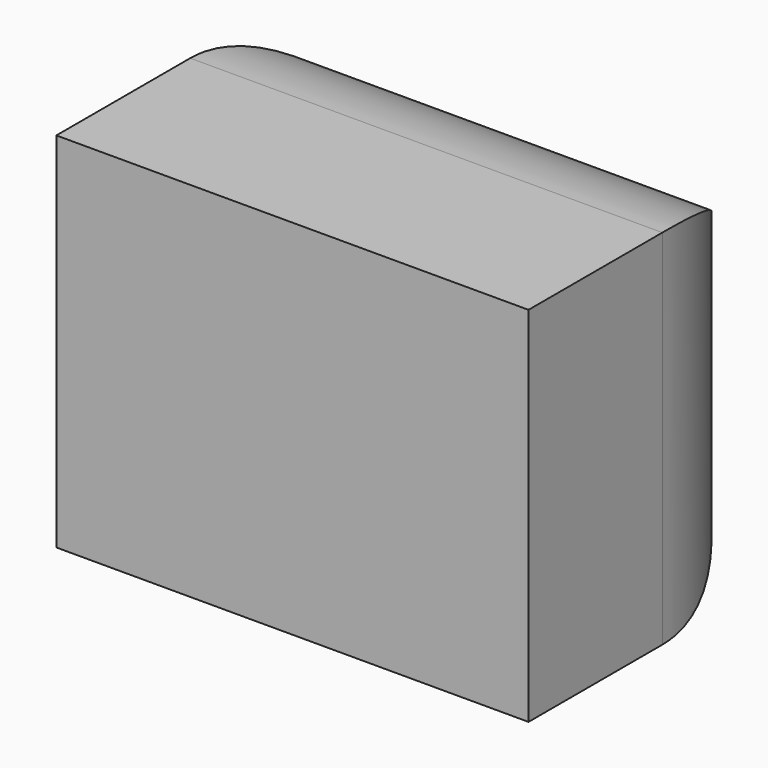
from build123d import *

# Parameters (mm, degrees)
F1_DEPTH = 70.866
F2_R     = 34.339774


with BuildPart() as f1:
    # F0 (on Top) → F1 (new body)
    with BuildSketch(Plane.XY):
        Polygon((45.39609, 30.624349), (-46.83724, 30.624349), (-46.83724, 28.46263), (-46.83724, -36.38893), (45.39609, -36.38893), align=None)
    extrude(amount=F1_DEPTH)

    # F2
    f2_edges = [f1.edges().sort_by_distance(p)[0] for p in [
        (45.39609, 30.624349, 35.433),
        (-46.83724, 30.624349, 35.433),
        (-0.720575, 30.624349, 0),
        (-0.720575, 30.624349, 70.866),
    ]]
    fillet(f2_edges, radius=F2_R)


solid = f1.part
